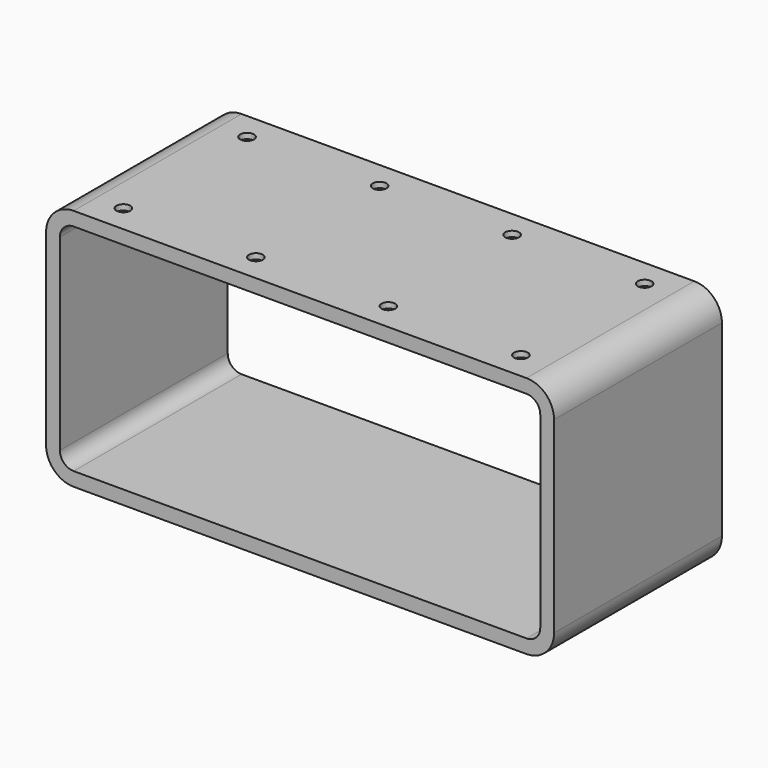
from build123d import *

# Parameters (mm, degrees)
F1_DEPTH = 380
F2_R     = 25
F3_DEPTH = 10
F4_R     = 12.5
F5_DEPTH = 10


with BuildPart() as f1:
    # F0 (on Front) → F1 (new body)
    with BuildSketch(Plane.XZ):
        with BuildLine():
            Line((-410, -220), (410, -220))
            ThreePointArc((410, -220), (445.355339, -205.355339), (460, -170))
            Line((460, -170), (460, 170))
            ThreePointArc((460, 170), (445.355339, 205.355339), (410, 220))
            Line((410, 220), (-410, 220))
            ThreePointArc((-410, 220), (-445.355339, 205.355339), (-460, 170))
            Line((-460, 170), (-460, -170))
            ThreePointArc((-460, -170), (-445.355339, -205.355339), (-410, -220))
        make_face()
        with BuildLine():
            ThreePointArc((435, -170), (427.67767, -187.67767), (410, -195))
            Line((410, -195), (-410, -195))
            ThreePointArc((-410, -195), (-427.67767, -187.67767), (-435, -170))
            Line((-435, -170), (-435, 170))
            ThreePointArc((-435, 170), (-427.67767, 187.67767), (-410, 195))
            Line((-410, 195), (410, 195))
            ThreePointArc((410, 195), (427.67767, 187.67767), (435, 170))
            Line((435, 170), (435, -170))
        make_face(mode=Mode.SUBTRACT)
    extrude(amount=F1_DEPTH)

    # F2 (on face) → F3 (cut)
    with BuildSketch(Plane(origin=(0, 0, -220), x_dir=(1, 0, 0), z_dir=(0, 0, -1))):
        with Locations((-360, 50)):
            Circle(F2_R)
        with Locations((-360, 330)):
            Circle(F2_R)
        with Locations((360, 330)):
            Circle(F2_R)
        with Locations((360, 50)):
            Circle(F2_R)
    extrude(amount=-F3_DEPTH, mode=Mode.SUBTRACT)

    # F4 (on face) → F5 (cut)
    with BuildSketch(Plane.XY.offset(220)):
        with Locations((-360, -50)):
            Circle(F4_R)
        with Locations((-360, -330)):
            Circle(F4_R)
        with Locations((-120, -330)):
            Circle(F4_R)
        with Locations((-120, -50)):
            Circle(F4_R)
        with Locations((120, -330)):
            Circle(F4_R)
        with Locations((120, -50)):
            Circle(F4_R)
        with Locations((360, -330)):
            Circle(F4_R)
        with Locations((360, -50)):
            Circle(F4_R)
    extrude(amount=-F5_DEPTH, mode=Mode.SUBTRACT)


solid = f1.part
